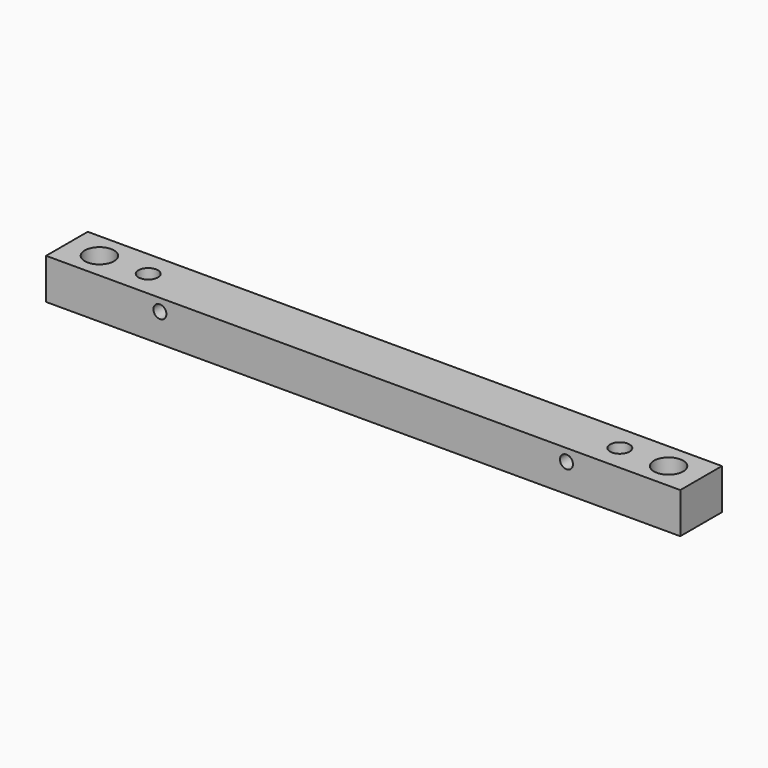
from build123d import *

# Parameters (mm, degrees)
F0_W     = 32
F0_H     = 25
F1_DEPTH = 390
F2_R     = 4
F3_DEPTH = 93
F4_R     = 6.5
F5_DEPTH = 40.8
F6_R     = 9
F7_DEPTH = 13
F8_R     = 6
F9_DEPTH = 76.1


with BuildPart() as f1:
    # F0 (on Right) → F1 (new body)
    with BuildSketch(Plane.YZ):
        Rectangle(F0_W, F0_H)
    extrude(amount=F1_DEPTH)

    # F2 (on face) → F3 (cut)
    with BuildSketch(Plane(origin=(0, 16, 0), x_dir=(-1, 0, 0), z_dir=(0, 1, 0))):
        with Locations((-320, 5)):
            Circle(F2_R)
        with Locations((-70, 5)):
            Circle(F2_R)
    extrude(amount=-F3_DEPTH, mode=Mode.SUBTRACT)

    # F4 (on face) → F5 (cut)
    with BuildSketch(Plane(origin=(0, 0, -12.5), x_dir=(1, 0, 0), z_dir=(0, 0, -1))):
        with Locations((20, 0)):
            Circle(F4_R)
        with Locations((370, 0)):
            Circle(F4_R)
    extrude(amount=-F5_DEPTH, mode=Mode.SUBTRACT)

    # F6 (on face) → F7 (cut)
    with BuildSketch(Plane.XY.offset(12.5)):
        with Locations((20, 0)):
            Circle(F6_R)
        with Locations((370, 0)):
            Circle(F6_R)
    extrude(amount=-F7_DEPTH, mode=Mode.SUBTRACT)

    # F8 (on face) → F9 (cut)
    with BuildSketch(Plane(origin=(0, 0, -12.5), x_dir=(1, 0, 0), z_dir=(0, 0, -1))):
        with Locations((50, 0)):
            Circle(F8_R)
        with Locations((340, 0)):
            Circle(F8_R)
    extrude(amount=-F9_DEPTH, mode=Mode.SUBTRACT)


solid = f1.part
